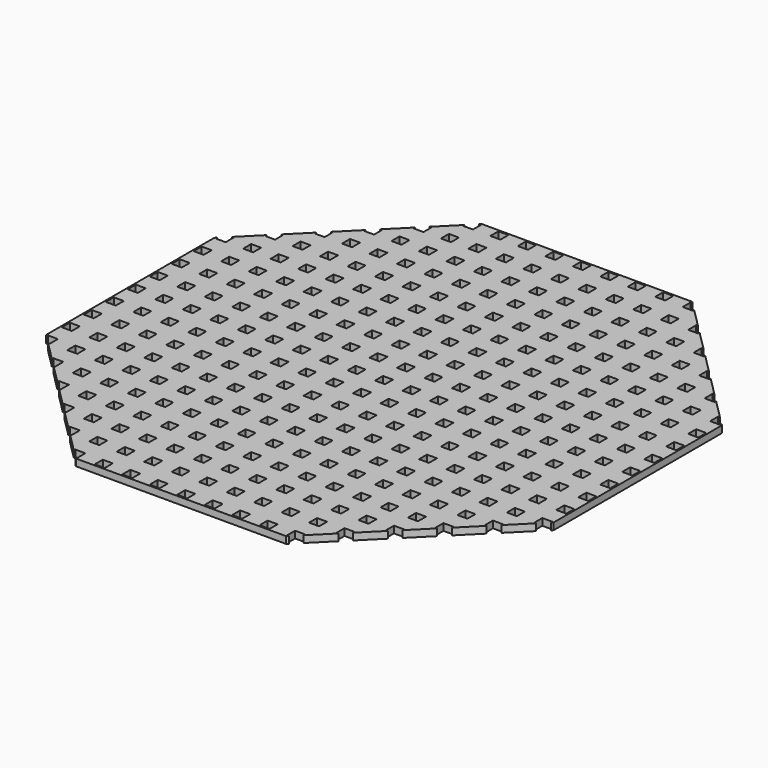
from build123d import *

# Parameters (mm, degrees)
F0_W     = 4.6228
F0_H     = 4.6228
F1_DEPTH = 3.175


with BuildPart() as f1:
    # F0 (on Top) → F1 (new body)
    with BuildSketch(Plane.XY):
        Polygon((-113.677273, 2.210381), (-114.398573, 2.210381), (-114.398573, -46.390415), (-113.677273, -47.111715), (-113.677273, -46.278219), (-109.054473, -46.278219), (-109.054473, -50.901019), (-109.887969, -50.901019), (-100.977273, -59.811715), (-100.977273, -58.978219), (-96.354473, -58.978219), (-96.354473, -63.601019), (-97.187969, -63.601019), (-88.277273, -72.511715), (-88.277273, -71.678219), (-83.654473, -71.678219), (-83.654473, -76.301019), (-84.487969, -76.301019), (-75.577273, -85.211715), (-75.577273, -84.378219), (-70.954473, -84.378219), (-70.954473, -89.001019), (-71.787969, -89.001019), (-62.877273, -97.911715), (-62.877273, -97.078219), (-58.254473, -97.078219), (-58.254473, -101.701019), (-59.087969, -101.701019), (-50.177273, -110.611715), (-50.177273, -109.778219), (-45.554473, -109.778219), (-45.554473, -114.401019), (-46.387969, -114.401019), (-45.666668, -115.12232), (2.934127, -115.12232), (2.934127, -114.401019), (0.622727, -114.401019), (0.622727, -109.778219), (2.934127, -109.778219), (2.934127, -101.701019), (0.622727, -101.701019), (0.622727, -97.078219), (2.934127, -97.078219), (2.934127, -89.001019), (0.622727, -89.001019), (0.622727, -84.378219), (2.934127, -84.378219), (2.934127, -76.301019), (0.622727, -76.301019), (0.622727, -71.678219), (2.934127, -71.678219), (2.934127, -63.601019), (0.622727, -63.601019), (0.622727, -58.978219), (2.934127, -58.978219), (2.934127, -50.901019), (0.622727, -50.901019), (0.622727, -46.278219), (2.934127, -46.278219), (2.934127, -38.201019), (0.622727, -38.201019), (0.622727, -33.578219), (2.934127, -33.578219), (2.934127, -25.501019), (0.622727, -25.501019), (0.622727, -20.878219), (2.934127, -20.878219), (2.934127, -12.801019), (0.622727, -12.801019), (0.622727, -8.178219), (2.934127, -8.178219), (2.934127, -0.101019), (0.622727, -0.101019), (0.622727, 2.210381), (-7.454473, 2.210381), (-7.454473, -0.101019), (-12.077273, -0.101019), (-12.077273, 2.210381), (-20.154473, 2.210381), (-20.154473, -0.101019), (-24.777273, -0.101019), (-24.777273, 2.210381), (-32.854473, 2.210381), (-32.854473, -0.101019), (-37.477273, -0.101019), (-37.477273, 2.210381), (-45.554473, 2.210381), (-45.554473, -0.101019), (-50.177273, -0.101019), (-50.177273, 2.210381), (-58.254473, 2.210381), (-58.254473, -0.101019), (-62.877273, -0.101019), (-62.877273, 2.210381), (-70.954473, 2.210381), (-70.954473, -0.101019), (-75.577273, -0.101019), (-75.577273, 2.210381), (-83.654473, 2.210381), (-83.654473, -0.101019), (-88.277273, -0.101019), (-88.277273, 2.210381), (-96.354473, 2.210381), (-96.354473, -0.101019), (-100.977273, -0.101019), (-100.977273, 2.210381), (-109.054473, 2.210381), (-109.054473, -0.101019), (-113.677273, -0.101019), align=None)
        with Locations((-60.565873, -86.689619)):
            Rectangle(F0_W, F0_H, mode=Mode.SUBTRACT)
        with Locations((-85.965873, -61.289619)):
            Rectangle(F0_W, F0_H, mode=Mode.SUBTRACT)
        with Locations((-73.265873, -73.989619)):
            Rectangle(F0_W, F0_H, mode=Mode.SUBTRACT)
        with Locations((-60.565873, -73.989619)):
            Rectangle(F0_W, F0_H, mode=Mode.SUBTRACT)
        with Locations((-73.265873, -61.289619)):
            Rectangle(F0_W, F0_H, mode=Mode.SUBTRACT)
        with Locations((-60.565873, -61.289619)):
            Rectangle(F0_W, F0_H, mode=Mode.SUBTRACT)
        with Locations((-35.165873, -112.089619)):
            Rectangle(F0_W, F0_H, mode=Mode.SUBTRACT)
        with Locations((-47.865873, -99.389619)):
            Rectangle(F0_W, F0_H, mode=Mode.SUBTRACT)
        with Locations((-47.865873, -86.689619)):
            Rectangle(F0_W, F0_H, mode=Mode.SUBTRACT)
        with Locations((-35.165873, -99.389619)):
            Rectangle(F0_W, F0_H, mode=Mode.SUBTRACT)
        with Locations((-35.165873, -86.689619)):
            Rectangle(F0_W, F0_H, mode=Mode.SUBTRACT)
        with Locations((-22.465873, -112.089619)):
            Rectangle(F0_W, F0_H, mode=Mode.SUBTRACT)
        with Locations((-9.765873, -112.089619)):
            Rectangle(F0_W, F0_H, mode=Mode.SUBTRACT)
        with Locations((-22.465873, -99.389619)):
            Rectangle(F0_W, F0_H, mode=Mode.SUBTRACT)
        with Locations((-22.465873, -86.689619)):
            Rectangle(F0_W, F0_H, mode=Mode.SUBTRACT)
        with Locations((-9.765873, -99.389619)):
            Rectangle(F0_W, F0_H, mode=Mode.SUBTRACT)
        with Locations((-9.765873, -86.689619)):
            Rectangle(F0_W, F0_H, mode=Mode.SUBTRACT)
        with Locations((-47.865873, -73.989619)):
            Rectangle(F0_W, F0_H, mode=Mode.SUBTRACT)
        with Locations((-35.165873, -73.989619)):
            Rectangle(F0_W, F0_H, mode=Mode.SUBTRACT)
        with Locations((-47.865873, -61.289619)):
            Rectangle(F0_W, F0_H, mode=Mode.SUBTRACT)
        with Locations((-35.165873, -61.289619)):
            Rectangle(F0_W, F0_H, mode=Mode.SUBTRACT)
        with Locations((-22.465873, -73.989619)):
            Rectangle(F0_W, F0_H, mode=Mode.SUBTRACT)
        with Locations((-9.765873, -73.989619)):
            Rectangle(F0_W, F0_H, mode=Mode.SUBTRACT)
        with Locations((-22.465873, -61.289619)):
            Rectangle(F0_W, F0_H, mode=Mode.SUBTRACT)
        with Locations((-9.765873, -61.289619)):
            Rectangle(F0_W, F0_H, mode=Mode.SUBTRACT)
        with Locations((-98.665873, -48.589619)):
            Rectangle(F0_W, F0_H, mode=Mode.SUBTRACT)
        with Locations((-85.965873, -48.589619)):
            Rectangle(F0_W, F0_H, mode=Mode.SUBTRACT)
        with Locations((-111.365873, -35.889619)):
            Rectangle(F0_W, F0_H, mode=Mode.SUBTRACT)
        with Locations((-98.665873, -35.889619)):
            Rectangle(F0_W, F0_H, mode=Mode.SUBTRACT)
        with Locations((-85.965873, -35.889619)):
            Rectangle(F0_W, F0_H, mode=Mode.SUBTRACT)
        with Locations((-73.265873, -48.589619)):
            Rectangle(F0_W, F0_H, mode=Mode.SUBTRACT)
        with Locations((-60.565873, -48.589619)):
            Rectangle(F0_W, F0_H, mode=Mode.SUBTRACT)
        with Locations((-73.265873, -35.889619)):
            Rectangle(F0_W, F0_H, mode=Mode.SUBTRACT)
        with Locations((-60.565873, -35.889619)):
            Rectangle(F0_W, F0_H, mode=Mode.SUBTRACT)
        with Locations((-111.365873, -23.189619)):
            Rectangle(F0_W, F0_H, mode=Mode.SUBTRACT)
        with Locations((-98.665873, -23.189619)):
            Rectangle(F0_W, F0_H, mode=Mode.SUBTRACT)
        with Locations((-85.965873, -23.189619)):
            Rectangle(F0_W, F0_H, mode=Mode.SUBTRACT)
        with Locations((-111.365873, -10.489619)):
            Rectangle(F0_W, F0_H, mode=Mode.SUBTRACT)
        with Locations((-98.665873, -10.489619)):
            Rectangle(F0_W, F0_H, mode=Mode.SUBTRACT)
        with Locations((-85.965873, -10.489619)):
            Rectangle(F0_W, F0_H, mode=Mode.SUBTRACT)
        with Locations((-73.265873, -23.189619)):
            Rectangle(F0_W, F0_H, mode=Mode.SUBTRACT)
        with Locations((-60.565873, -23.189619)):
            Rectangle(F0_W, F0_H, mode=Mode.SUBTRACT)
        with Locations((-73.265873, -10.489619)):
            Rectangle(F0_W, F0_H, mode=Mode.SUBTRACT)
        with Locations((-60.565873, -10.489619)):
            Rectangle(F0_W, F0_H, mode=Mode.SUBTRACT)
        with Locations((-47.865873, -48.589619)):
            Rectangle(F0_W, F0_H, mode=Mode.SUBTRACT)
        with Locations((-35.165873, -48.589619)):
            Rectangle(F0_W, F0_H, mode=Mode.SUBTRACT)
        with Locations((-47.865873, -35.889619)):
            Rectangle(F0_W, F0_H, mode=Mode.SUBTRACT)
        with Locations((-35.165873, -35.889619)):
            Rectangle(F0_W, F0_H, mode=Mode.SUBTRACT)
        with Locations((-22.465873, -48.589619)):
            Rectangle(F0_W, F0_H, mode=Mode.SUBTRACT)
        with Locations((-9.765873, -48.589619)):
            Rectangle(F0_W, F0_H, mode=Mode.SUBTRACT)
        with Locations((-22.465873, -35.889619)):
            Rectangle(F0_W, F0_H, mode=Mode.SUBTRACT)
        with Locations((-9.765873, -35.889619)):
            Rectangle(F0_W, F0_H, mode=Mode.SUBTRACT)
        with Locations((-47.865873, -23.189619)):
            Rectangle(F0_W, F0_H, mode=Mode.SUBTRACT)
        with Locations((-35.165873, -23.189619)):
            Rectangle(F0_W, F0_H, mode=Mode.SUBTRACT)
        with Locations((-47.865873, -10.489619)):
            Rectangle(F0_W, F0_H, mode=Mode.SUBTRACT)
        with Locations((-35.165873, -10.489619)):
            Rectangle(F0_W, F0_H, mode=Mode.SUBTRACT)
        with Locations((-22.465873, -23.189619)):
            Rectangle(F0_W, F0_H, mode=Mode.SUBTRACT)
        with Locations((-9.765873, -23.189619)):
            Rectangle(F0_W, F0_H, mode=Mode.SUBTRACT)
        with Locations((-22.465873, -10.489619)):
            Rectangle(F0_W, F0_H, mode=Mode.SUBTRACT)
        with Locations((-9.765873, -10.489619)):
            Rectangle(F0_W, F0_H, mode=Mode.SUBTRACT)
        Polygon((-113.677273, 51.532478), (-114.398573, 50.811177), (-114.398573, 2.210381), (-113.677273, 2.210381), (-113.677273, 4.521781), (-109.054473, 4.521781), (-109.054473, 2.210381), (-100.977273, 2.210381), (-100.977273, 4.521781), (-96.354473, 4.521781), (-96.354473, 2.210381), (-88.277273, 2.210381), (-88.277273, 4.521781), (-83.654473, 4.521781), (-83.654473, 2.210381), (-75.577273, 2.210381), (-75.577273, 4.521781), (-70.954473, 4.521781), (-70.954473, 2.210381), (-62.877273, 2.210381), (-62.877273, 4.521781), (-58.254473, 4.521781), (-58.254473, 2.210381), (-50.177273, 2.210381), (-50.177273, 4.521781), (-45.554473, 4.521781), (-45.554473, 2.210381), (-37.477273, 2.210381), (-37.477273, 4.521781), (-32.854473, 4.521781), (-32.854473, 2.210381), (-24.777273, 2.210381), (-24.777273, 4.521781), (-20.154473, 4.521781), (-20.154473, 2.210381), (-12.077273, 2.210381), (-12.077273, 4.521781), (-7.454473, 4.521781), (-7.454473, 2.210381), (0.622727, 2.210381), (0.622727, 4.521781), (2.934127, 4.521781), (2.934127, 12.598981), (0.622727, 12.598981), (0.622727, 17.221781), (2.934127, 17.221781), (2.934127, 25.298981), (0.622727, 25.298981), (0.622727, 29.921781), (2.934127, 29.921781), (2.934127, 37.998981), (0.622727, 37.998981), (0.622727, 42.621781), (2.934127, 42.621781), (2.934127, 50.698981), (0.622727, 50.698981), (0.622727, 55.321781), (2.934127, 55.321781), (2.934127, 63.398981), (0.622727, 63.398981), (0.622727, 68.021781), (2.934127, 68.021781), (2.934127, 76.098981), (0.622727, 76.098981), (0.622727, 80.721781), (2.934127, 80.721781), (2.934127, 88.798981), (0.622727, 88.798981), (0.622727, 93.421781), (2.934127, 93.421781), (2.934127, 101.498981), (0.622727, 101.498981), (0.622727, 106.121781), (2.934127, 106.121781), (2.934127, 114.198981), (0.622727, 114.198981), (0.622727, 118.821781), (2.934127, 118.821781), (2.934127, 119.543082), (-45.666668, 119.543082), (-46.387969, 118.821781), (-45.554473, 118.821781), (-45.554473, 114.198981), (-50.177273, 114.198981), (-50.177273, 115.032478), (-59.087969, 106.121781), (-58.254473, 106.121781), (-58.254473, 101.498981), (-62.877273, 101.498981), (-62.877273, 102.332478), (-71.787969, 93.421781), (-70.954473, 93.421781), (-70.954473, 88.798981), (-75.577273, 88.798981), (-75.577273, 89.632478), (-84.487969, 80.721781), (-83.654473, 80.721781), (-83.654473, 76.098981), (-88.277273, 76.098981), (-88.277273, 76.932478), (-97.187969, 68.021781), (-96.354473, 68.021781), (-96.354473, 63.398981), (-100.977273, 63.398981), (-100.977273, 64.232478), (-109.887969, 55.321781), (-109.054473, 55.321781), (-109.054473, 50.698981), (-113.677273, 50.698981), align=None)
        with Locations((-111.365873, 14.910381)):
            Rectangle(F0_W, F0_H, mode=Mode.SUBTRACT)
        with Locations((-98.665873, 14.910381)):
            Rectangle(F0_W, F0_H, mode=Mode.SUBTRACT)
        with Locations((-85.965873, 14.910381)):
            Rectangle(F0_W, F0_H, mode=Mode.SUBTRACT)
        with Locations((-111.365873, 27.610381)):
            Rectangle(F0_W, F0_H, mode=Mode.SUBTRACT)
        with Locations((-98.665873, 27.610381)):
            Rectangle(F0_W, F0_H, mode=Mode.SUBTRACT)
        with Locations((-85.965873, 27.610381)):
            Rectangle(F0_W, F0_H, mode=Mode.SUBTRACT)
        with Locations((-73.265873, 14.910381)):
            Rectangle(F0_W, F0_H, mode=Mode.SUBTRACT)
        with Locations((-60.565873, 14.910381)):
            Rectangle(F0_W, F0_H, mode=Mode.SUBTRACT)
        with Locations((-73.265873, 27.610381)):
            Rectangle(F0_W, F0_H, mode=Mode.SUBTRACT)
        with Locations((-60.565873, 27.610381)):
            Rectangle(F0_W, F0_H, mode=Mode.SUBTRACT)
        with Locations((-111.365873, 40.310381)):
            Rectangle(F0_W, F0_H, mode=Mode.SUBTRACT)
        with Locations((-98.665873, 40.310381)):
            Rectangle(F0_W, F0_H, mode=Mode.SUBTRACT)
        with Locations((-85.965873, 40.310381)):
            Rectangle(F0_W, F0_H, mode=Mode.SUBTRACT)
        with Locations((-98.665873, 53.010381)):
            Rectangle(F0_W, F0_H, mode=Mode.SUBTRACT)
        with Locations((-85.965873, 53.010381)):
            Rectangle(F0_W, F0_H, mode=Mode.SUBTRACT)
        with Locations((-73.265873, 40.310381)):
            Rectangle(F0_W, F0_H, mode=Mode.SUBTRACT)
        with Locations((-60.565873, 40.310381)):
            Rectangle(F0_W, F0_H, mode=Mode.SUBTRACT)
        with Locations((-73.265873, 53.010381)):
            Rectangle(F0_W, F0_H, mode=Mode.SUBTRACT)
        with Locations((-60.565873, 53.010381)):
            Rectangle(F0_W, F0_H, mode=Mode.SUBTRACT)
        with Locations((-47.865873, 14.910381)):
            Rectangle(F0_W, F0_H, mode=Mode.SUBTRACT)
        with Locations((-35.165873, 14.910381)):
            Rectangle(F0_W, F0_H, mode=Mode.SUBTRACT)
        with Locations((-47.865873, 27.610381)):
            Rectangle(F0_W, F0_H, mode=Mode.SUBTRACT)
        with Locations((-35.165873, 27.610381)):
            Rectangle(F0_W, F0_H, mode=Mode.SUBTRACT)
        with Locations((-22.465873, 14.910381)):
            Rectangle(F0_W, F0_H, mode=Mode.SUBTRACT)
        with Locations((-9.765873, 14.910381)):
            Rectangle(F0_W, F0_H, mode=Mode.SUBTRACT)
        with Locations((-22.465873, 27.610381)):
            Rectangle(F0_W, F0_H, mode=Mode.SUBTRACT)
        with Locations((-9.765873, 27.610381)):
            Rectangle(F0_W, F0_H, mode=Mode.SUBTRACT)
        with Locations((-47.865873, 40.310381)):
            Rectangle(F0_W, F0_H, mode=Mode.SUBTRACT)
        with Locations((-35.165873, 40.310381)):
            Rectangle(F0_W, F0_H, mode=Mode.SUBTRACT)
        with Locations((-47.865873, 53.010381)):
            Rectangle(F0_W, F0_H, mode=Mode.SUBTRACT)
        with Locations((-35.165873, 53.010381)):
            Rectangle(F0_W, F0_H, mode=Mode.SUBTRACT)
        with Locations((-22.465873, 40.310381)):
            Rectangle(F0_W, F0_H, mode=Mode.SUBTRACT)
        with Locations((-9.765873, 40.310381)):
            Rectangle(F0_W, F0_H, mode=Mode.SUBTRACT)
        with Locations((-22.465873, 53.010381)):
            Rectangle(F0_W, F0_H, mode=Mode.SUBTRACT)
        with Locations((-9.765873, 53.010381)):
            Rectangle(F0_W, F0_H, mode=Mode.SUBTRACT)
        with Locations((-85.965873, 65.710381)):
            Rectangle(F0_W, F0_H, mode=Mode.SUBTRACT)
        with Locations((-73.265873, 65.710381)):
            Rectangle(F0_W, F0_H, mode=Mode.SUBTRACT)
        with Locations((-60.565873, 65.710381)):
            Rectangle(F0_W, F0_H, mode=Mode.SUBTRACT)
        with Locations((-73.265873, 78.410381)):
            Rectangle(F0_W, F0_H, mode=Mode.SUBTRACT)
        with Locations((-60.565873, 78.410381)):
            Rectangle(F0_W, F0_H, mode=Mode.SUBTRACT)
        with Locations((-60.565873, 91.110381)):
            Rectangle(F0_W, F0_H, mode=Mode.SUBTRACT)
        with Locations((-47.865873, 65.710381)):
            Rectangle(F0_W, F0_H, mode=Mode.SUBTRACT)
        with Locations((-35.165873, 65.710381)):
            Rectangle(F0_W, F0_H, mode=Mode.SUBTRACT)
        with Locations((-47.865873, 78.410381)):
            Rectangle(F0_W, F0_H, mode=Mode.SUBTRACT)
        with Locations((-35.165873, 78.410381)):
            Rectangle(F0_W, F0_H, mode=Mode.SUBTRACT)
        with Locations((-22.465873, 65.710381)):
            Rectangle(F0_W, F0_H, mode=Mode.SUBTRACT)
        with Locations((-9.765873, 65.710381)):
            Rectangle(F0_W, F0_H, mode=Mode.SUBTRACT)
        with Locations((-22.465873, 78.410381)):
            Rectangle(F0_W, F0_H, mode=Mode.SUBTRACT)
        with Locations((-9.765873, 78.410381)):
            Rectangle(F0_W, F0_H, mode=Mode.SUBTRACT)
        with Locations((-47.865873, 91.110381)):
            Rectangle(F0_W, F0_H, mode=Mode.SUBTRACT)
        with Locations((-47.865873, 103.810381)):
            Rectangle(F0_W, F0_H, mode=Mode.SUBTRACT)
        with Locations((-35.165873, 91.110381)):
            Rectangle(F0_W, F0_H, mode=Mode.SUBTRACT)
        with Locations((-35.165873, 103.810381)):
            Rectangle(F0_W, F0_H, mode=Mode.SUBTRACT)
        with Locations((-35.165873, 116.510381)):
            Rectangle(F0_W, F0_H, mode=Mode.SUBTRACT)
        with Locations((-22.465873, 91.110381)):
            Rectangle(F0_W, F0_H, mode=Mode.SUBTRACT)
        with Locations((-22.465873, 103.810381)):
            Rectangle(F0_W, F0_H, mode=Mode.SUBTRACT)
        with Locations((-9.765873, 91.110381)):
            Rectangle(F0_W, F0_H, mode=Mode.SUBTRACT)
        with Locations((-9.765873, 103.810381)):
            Rectangle(F0_W, F0_H, mode=Mode.SUBTRACT)
        with Locations((-22.465873, 116.510381)):
            Rectangle(F0_W, F0_H, mode=Mode.SUBTRACT)
        with Locations((-9.765873, 116.510381)):
            Rectangle(F0_W, F0_H, mode=Mode.SUBTRACT)
        Polygon((51.534923, 119.543082), (2.934127, 119.543082), (2.934127, 118.821781), (5.245527, 118.821781), (5.245527, 114.198981), (2.934127, 114.198981), (2.934127, 106.121781), (5.245527, 106.121781), (5.245527, 101.498981), (2.934127, 101.498981), (2.934127, 93.421781), (5.245527, 93.421781), (5.245527, 88.798981), (2.934127, 88.798981), (2.934127, 80.721781), (5.245527, 80.721781), (5.245527, 76.098981), (2.934127, 76.098981), (2.934127, 68.021781), (5.245527, 68.021781), (5.245527, 63.398981), (2.934127, 63.398981), (2.934127, 55.321781), (5.245527, 55.321781), (5.245527, 50.698981), (2.934127, 50.698981), (2.934127, 42.621781), (5.245527, 42.621781), (5.245527, 37.998981), (2.934127, 37.998981), (2.934127, 29.921781), (5.245527, 29.921781), (5.245527, 25.298981), (2.934127, 25.298981), (2.934127, 17.221781), (5.245527, 17.221781), (5.245527, 12.598981), (2.934127, 12.598981), (2.934127, 4.521781), (5.245527, 4.521781), (5.245527, 2.210381), (13.322727, 2.210381), (13.322727, 4.521781), (17.945527, 4.521781), (17.945527, 2.210381), (26.022727, 2.210381), (26.022727, 4.521781), (30.645527, 4.521781), (30.645527, 2.210381), (38.722727, 2.210381), (38.722727, 4.521781), (43.345527, 4.521781), (43.345527, 2.210381), (51.422727, 2.210381), (51.422727, 4.521781), (56.045527, 4.521781), (56.045527, 2.210381), (64.122727, 2.210381), (64.122727, 4.521781), (68.745527, 4.521781), (68.745527, 2.210381), (76.822727, 2.210381), (76.822727, 4.521781), (81.445527, 4.521781), (81.445527, 2.210381), (89.522727, 2.210381), (89.522727, 4.521781), (94.145527, 4.521781), (94.145527, 2.210381), (102.222727, 2.210381), (102.222727, 4.521781), (106.845527, 4.521781), (106.845527, 2.210381), (114.922727, 2.210381), (114.922727, 4.521781), (119.545527, 4.521781), (119.545527, 2.210381), (120.266828, 2.210381), (120.266828, 50.811177), (119.545527, 51.532478), (119.545527, 50.698981), (114.922727, 50.698981), (114.922727, 55.321781), (115.756224, 55.321781), (106.845527, 64.232478), (106.845527, 63.398981), (102.222727, 63.398981), (102.222727, 68.021781), (103.056224, 68.021781), (94.145527, 76.932478), (94.145527, 76.098981), (89.522727, 76.098981), (89.522727, 80.721781), (90.356224, 80.721781), (81.445527, 89.632478), (81.445527, 88.798981), (76.822727, 88.798981), (76.822727, 93.421781), (77.656224, 93.421781), (68.745527, 102.332478), (68.745527, 101.498981), (64.122727, 101.498981), (64.122727, 106.121781), (64.956224, 106.121781), (56.045527, 115.032478), (56.045527, 114.198981), (51.422727, 114.198981), (51.422727, 118.821781), (52.256224, 118.821781), align=None)
        with Locations((15.634127, 14.910381)):
            Rectangle(F0_W, F0_H, mode=Mode.SUBTRACT)
        with Locations((28.334127, 14.910381)):
            Rectangle(F0_W, F0_H, mode=Mode.SUBTRACT)
        with Locations((15.634127, 27.610381)):
            Rectangle(F0_W, F0_H, mode=Mode.SUBTRACT)
        with Locations((28.334127, 27.610381)):
            Rectangle(F0_W, F0_H, mode=Mode.SUBTRACT)
        with Locations((41.034127, 14.910381)):
            Rectangle(F0_W, F0_H, mode=Mode.SUBTRACT)
        with Locations((53.734127, 14.910381)):
            Rectangle(F0_W, F0_H, mode=Mode.SUBTRACT)
        with Locations((41.034127, 27.610381)):
            Rectangle(F0_W, F0_H, mode=Mode.SUBTRACT)
        with Locations((53.734127, 27.610381)):
            Rectangle(F0_W, F0_H, mode=Mode.SUBTRACT)
        with Locations((15.634127, 40.310381)):
            Rectangle(F0_W, F0_H, mode=Mode.SUBTRACT)
        with Locations((28.334127, 40.310381)):
            Rectangle(F0_W, F0_H, mode=Mode.SUBTRACT)
        with Locations((15.634127, 53.010381)):
            Rectangle(F0_W, F0_H, mode=Mode.SUBTRACT)
        with Locations((28.334127, 53.010381)):
            Rectangle(F0_W, F0_H, mode=Mode.SUBTRACT)
        with Locations((41.034127, 40.310381)):
            Rectangle(F0_W, F0_H, mode=Mode.SUBTRACT)
        with Locations((53.734127, 40.310381)):
            Rectangle(F0_W, F0_H, mode=Mode.SUBTRACT)
        with Locations((41.034127, 53.010381)):
            Rectangle(F0_W, F0_H, mode=Mode.SUBTRACT)
        with Locations((53.734127, 53.010381)):
            Rectangle(F0_W, F0_H, mode=Mode.SUBTRACT)
        with Locations((66.434127, 14.910381)):
            Rectangle(F0_W, F0_H, mode=Mode.SUBTRACT)
        with Locations((79.134127, 14.910381)):
            Rectangle(F0_W, F0_H, mode=Mode.SUBTRACT)
        with Locations((66.434127, 27.610381)):
            Rectangle(F0_W, F0_H, mode=Mode.SUBTRACT)
        with Locations((79.134127, 27.610381)):
            Rectangle(F0_W, F0_H, mode=Mode.SUBTRACT)
        with Locations((91.834127, 14.910381)):
            Rectangle(F0_W, F0_H, mode=Mode.SUBTRACT)
        with Locations((104.534127, 14.910381)):
            Rectangle(F0_W, F0_H, mode=Mode.SUBTRACT)
        with Locations((117.234127, 14.910381)):
            Rectangle(F0_W, F0_H, mode=Mode.SUBTRACT)
        with Locations((91.834127, 27.610381)):
            Rectangle(F0_W, F0_H, mode=Mode.SUBTRACT)
        with Locations((104.534127, 27.610381)):
            Rectangle(F0_W, F0_H, mode=Mode.SUBTRACT)
        with Locations((117.234127, 27.610381)):
            Rectangle(F0_W, F0_H, mode=Mode.SUBTRACT)
        with Locations((66.434127, 40.310381)):
            Rectangle(F0_W, F0_H, mode=Mode.SUBTRACT)
        with Locations((79.134127, 40.310381)):
            Rectangle(F0_W, F0_H, mode=Mode.SUBTRACT)
        with Locations((66.434127, 53.010381)):
            Rectangle(F0_W, F0_H, mode=Mode.SUBTRACT)
        with Locations((79.134127, 53.010381)):
            Rectangle(F0_W, F0_H, mode=Mode.SUBTRACT)
        with Locations((91.834127, 40.310381)):
            Rectangle(F0_W, F0_H, mode=Mode.SUBTRACT)
        with Locations((104.534127, 40.310381)):
            Rectangle(F0_W, F0_H, mode=Mode.SUBTRACT)
        with Locations((117.234127, 40.310381)):
            Rectangle(F0_W, F0_H, mode=Mode.SUBTRACT)
        with Locations((91.834127, 53.010381)):
            Rectangle(F0_W, F0_H, mode=Mode.SUBTRACT)
        with Locations((104.534127, 53.010381)):
            Rectangle(F0_W, F0_H, mode=Mode.SUBTRACT)
        with Locations((15.634127, 65.710381)):
            Rectangle(F0_W, F0_H, mode=Mode.SUBTRACT)
        with Locations((28.334127, 65.710381)):
            Rectangle(F0_W, F0_H, mode=Mode.SUBTRACT)
        with Locations((15.634127, 78.410381)):
            Rectangle(F0_W, F0_H, mode=Mode.SUBTRACT)
        with Locations((28.334127, 78.410381)):
            Rectangle(F0_W, F0_H, mode=Mode.SUBTRACT)
        with Locations((41.034127, 65.710381)):
            Rectangle(F0_W, F0_H, mode=Mode.SUBTRACT)
        with Locations((53.734127, 65.710381)):
            Rectangle(F0_W, F0_H, mode=Mode.SUBTRACT)
        with Locations((41.034127, 78.410381)):
            Rectangle(F0_W, F0_H, mode=Mode.SUBTRACT)
        with Locations((53.734127, 78.410381)):
            Rectangle(F0_W, F0_H, mode=Mode.SUBTRACT)
        with Locations((15.634127, 91.110381)):
            Rectangle(F0_W, F0_H, mode=Mode.SUBTRACT)
        with Locations((15.634127, 103.810381)):
            Rectangle(F0_W, F0_H, mode=Mode.SUBTRACT)
        with Locations((28.334127, 91.110381)):
            Rectangle(F0_W, F0_H, mode=Mode.SUBTRACT)
        with Locations((28.334127, 103.810381)):
            Rectangle(F0_W, F0_H, mode=Mode.SUBTRACT)
        with Locations((15.634127, 116.510381)):
            Rectangle(F0_W, F0_H, mode=Mode.SUBTRACT)
        with Locations((28.334127, 116.510381)):
            Rectangle(F0_W, F0_H, mode=Mode.SUBTRACT)
        with Locations((41.034127, 91.110381)):
            Rectangle(F0_W, F0_H, mode=Mode.SUBTRACT)
        with Locations((41.034127, 103.810381)):
            Rectangle(F0_W, F0_H, mode=Mode.SUBTRACT)
        with Locations((53.734127, 91.110381)):
            Rectangle(F0_W, F0_H, mode=Mode.SUBTRACT)
        with Locations((53.734127, 103.810381)):
            Rectangle(F0_W, F0_H, mode=Mode.SUBTRACT)
        with Locations((41.034127, 116.510381)):
            Rectangle(F0_W, F0_H, mode=Mode.SUBTRACT)
        with Locations((66.434127, 65.710381)):
            Rectangle(F0_W, F0_H, mode=Mode.SUBTRACT)
        with Locations((79.134127, 65.710381)):
            Rectangle(F0_W, F0_H, mode=Mode.SUBTRACT)
        with Locations((66.434127, 78.410381)):
            Rectangle(F0_W, F0_H, mode=Mode.SUBTRACT)
        with Locations((79.134127, 78.410381)):
            Rectangle(F0_W, F0_H, mode=Mode.SUBTRACT)
        with Locations((91.834127, 65.710381)):
            Rectangle(F0_W, F0_H, mode=Mode.SUBTRACT)
        with Locations((66.434127, 91.110381)):
            Rectangle(F0_W, F0_H, mode=Mode.SUBTRACT)
        Polygon((2.934127, -114.401019), (2.934127, -115.12232), (51.534923, -115.12232), (52.256224, -114.401019), (51.422727, -114.401019), (51.422727, -109.778219), (56.045527, -109.778219), (56.045527, -110.611715), (64.956224, -101.701019), (64.122727, -101.701019), (64.122727, -97.078219), (68.745527, -97.078219), (68.745527, -97.911715), (77.656224, -89.001019), (76.822727, -89.001019), (76.822727, -84.378219), (81.445527, -84.378219), (81.445527, -85.211715), (90.356224, -76.301019), (89.522727, -76.301019), (89.522727, -71.678219), (94.145527, -71.678219), (94.145527, -72.511715), (103.056224, -63.601019), (102.222727, -63.601019), (102.222727, -58.978219), (106.845527, -58.978219), (106.845527, -59.811715), (115.756224, -50.901019), (114.922727, -50.901019), (114.922727, -46.278219), (119.545527, -46.278219), (119.545527, -47.111715), (120.266828, -46.390415), (120.266828, 2.210381), (119.545527, 2.210381), (119.545527, -0.101019), (114.922727, -0.101019), (114.922727, 2.210381), (106.845527, 2.210381), (106.845527, -0.101019), (102.222727, -0.101019), (102.222727, 2.210381), (94.145527, 2.210381), (94.145527, -0.101019), (89.522727, -0.101019), (89.522727, 2.210381), (81.445527, 2.210381), (81.445527, -0.101019), (76.822727, -0.101019), (76.822727, 2.210381), (68.745527, 2.210381), (68.745527, -0.101019), (64.122727, -0.101019), (64.122727, 2.210381), (56.045527, 2.210381), (56.045527, -0.101019), (51.422727, -0.101019), (51.422727, 2.210381), (43.345527, 2.210381), (43.345527, -0.101019), (38.722727, -0.101019), (38.722727, 2.210381), (30.645527, 2.210381), (30.645527, -0.101019), (26.022727, -0.101019), (26.022727, 2.210381), (17.945527, 2.210381), (17.945527, -0.101019), (13.322727, -0.101019), (13.322727, 2.210381), (5.245527, 2.210381), (5.245527, -0.101019), (2.934127, -0.101019), (2.934127, -8.178219), (5.245527, -8.178219), (5.245527, -12.801019), (2.934127, -12.801019), (2.934127, -20.878219), (5.245527, -20.878219), (5.245527, -25.501019), (2.934127, -25.501019), (2.934127, -33.578219), (5.245527, -33.578219), (5.245527, -38.201019), (2.934127, -38.201019), (2.934127, -46.278219), (5.245527, -46.278219), (5.245527, -50.901019), (2.934127, -50.901019), (2.934127, -58.978219), (5.245527, -58.978219), (5.245527, -63.601019), (2.934127, -63.601019), (2.934127, -71.678219), (5.245527, -71.678219), (5.245527, -76.301019), (2.934127, -76.301019), (2.934127, -84.378219), (5.245527, -84.378219), (5.245527, -89.001019), (2.934127, -89.001019), (2.934127, -97.078219), (5.245527, -97.078219), (5.245527, -101.701019), (2.934127, -101.701019), (2.934127, -109.778219), (5.245527, -109.778219), (5.245527, -114.401019), align=None)
        with Locations((15.634127, -112.089619)):
            Rectangle(F0_W, F0_H, mode=Mode.SUBTRACT)
        with Locations((28.334127, -112.089619)):
            Rectangle(F0_W, F0_H, mode=Mode.SUBTRACT)
        with Locations((15.634127, -99.389619)):
            Rectangle(F0_W, F0_H, mode=Mode.SUBTRACT)
        with Locations((15.634127, -86.689619)):
            Rectangle(F0_W, F0_H, mode=Mode.SUBTRACT)
        with Locations((28.334127, -99.389619)):
            Rectangle(F0_W, F0_H, mode=Mode.SUBTRACT)
        Polygon((30.645527, -84.378219), (30.645527, -89.001019), (28.203011, -89.001019), (26.022727, -89.001019), (26.022727, -84.378219), align=None, mode=Mode.SUBTRACT)
        with Locations((41.034127, -112.089619)):
            Rectangle(F0_W, F0_H, mode=Mode.SUBTRACT)
        Polygon((43.345527, -97.078219), (43.345527, -101.701019), (38.722727, -101.701019), (38.722727, -97.078219), (41.034127, -97.078219), align=None, mode=Mode.SUBTRACT)
        Polygon((43.345527, -89.001019), (41.034127, -89.001019), (38.722727, -89.001019), (38.722727, -84.378219), (43.345527, -84.378219), align=None, mode=Mode.SUBTRACT)
        with Locations((53.734127, -99.389619)):
            Rectangle(F0_W, F0_H, mode=Mode.SUBTRACT)
        with Locations((53.734127, -86.689619)):
            Rectangle(F0_W, F0_H, mode=Mode.SUBTRACT)
        with Locations((15.634127, -73.989619)):
            Rectangle(F0_W, F0_H, mode=Mode.SUBTRACT)
        with Locations((28.334127, -73.989619)):
            Rectangle(F0_W, F0_H, mode=Mode.SUBTRACT)
        with Locations((15.634127, -61.289619)):
            Rectangle(F0_W, F0_H, mode=Mode.SUBTRACT)
        with Locations((28.334127, -61.289619)):
            Rectangle(F0_W, F0_H, mode=Mode.SUBTRACT)
        with Locations((41.034127, -73.989619)):
            Rectangle(F0_W, F0_H, mode=Mode.SUBTRACT)
        with Locations((53.734127, -73.989619)):
            Rectangle(F0_W, F0_H, mode=Mode.SUBTRACT)
        with Locations((41.034127, -61.289619)):
            Rectangle(F0_W, F0_H, mode=Mode.SUBTRACT)
        with Locations((53.734127, -61.289619)):
            Rectangle(F0_W, F0_H, mode=Mode.SUBTRACT)
        with Locations((66.434127, -86.689619)):
            Rectangle(F0_W, F0_H, mode=Mode.SUBTRACT)
        with Locations((66.434127, -73.989619)):
            Rectangle(F0_W, F0_H, mode=Mode.SUBTRACT)
        with Locations((79.134127, -73.989619)):
            Rectangle(F0_W, F0_H, mode=Mode.SUBTRACT)
        with Locations((66.434127, -61.289619)):
            Rectangle(F0_W, F0_H, mode=Mode.SUBTRACT)
        with Locations((79.134127, -61.289619)):
            Rectangle(F0_W, F0_H, mode=Mode.SUBTRACT)
        with Locations((91.834127, -61.289619)):
            Rectangle(F0_W, F0_H, mode=Mode.SUBTRACT)
        with Locations((15.634127, -48.589619)):
            Rectangle(F0_W, F0_H, mode=Mode.SUBTRACT)
        with Locations((28.334127, -48.589619)):
            Rectangle(F0_W, F0_H, mode=Mode.SUBTRACT)
        with Locations((15.634127, -35.889619)):
            Rectangle(F0_W, F0_H, mode=Mode.SUBTRACT)
        with Locations((28.334127, -35.889619)):
            Rectangle(F0_W, F0_H, mode=Mode.SUBTRACT)
        with Locations((41.034127, -48.589619)):
            Rectangle(F0_W, F0_H, mode=Mode.SUBTRACT)
        with Locations((53.734127, -48.589619)):
            Rectangle(F0_W, F0_H, mode=Mode.SUBTRACT)
        with Locations((41.034127, -35.889619)):
            Rectangle(F0_W, F0_H, mode=Mode.SUBTRACT)
        with Locations((53.734127, -35.889619)):
            Rectangle(F0_W, F0_H, mode=Mode.SUBTRACT)
        with Locations((15.634127, -23.189619)):
            Rectangle(F0_W, F0_H, mode=Mode.SUBTRACT)
        with Locations((28.334127, -23.189619)):
            Rectangle(F0_W, F0_H, mode=Mode.SUBTRACT)
        with Locations((15.634127, -10.489619)):
            Rectangle(F0_W, F0_H, mode=Mode.SUBTRACT)
        with Locations((28.334127, -10.489619)):
            Rectangle(F0_W, F0_H, mode=Mode.SUBTRACT)
        with Locations((41.034127, -23.189619)):
            Rectangle(F0_W, F0_H, mode=Mode.SUBTRACT)
        with Locations((53.734127, -23.189619)):
            Rectangle(F0_W, F0_H, mode=Mode.SUBTRACT)
        with Locations((41.034127, -10.489619)):
            Rectangle(F0_W, F0_H, mode=Mode.SUBTRACT)
        with Locations((53.734127, -10.489619)):
            Rectangle(F0_W, F0_H, mode=Mode.SUBTRACT)
        with Locations((66.434127, -48.589619)):
            Rectangle(F0_W, F0_H, mode=Mode.SUBTRACT)
        with Locations((79.134127, -48.589619)):
            Rectangle(F0_W, F0_H, mode=Mode.SUBTRACT)
        with Locations((66.434127, -35.889619)):
            Rectangle(F0_W, F0_H, mode=Mode.SUBTRACT)
        with Locations((79.134127, -35.889619)):
            Rectangle(F0_W, F0_H, mode=Mode.SUBTRACT)
        with Locations((91.834127, -48.589619)):
            Rectangle(F0_W, F0_H, mode=Mode.SUBTRACT)
        with Locations((104.534127, -48.589619)):
            Rectangle(F0_W, F0_H, mode=Mode.SUBTRACT)
        with Locations((91.834127, -35.889619)):
            Rectangle(F0_W, F0_H, mode=Mode.SUBTRACT)
        with Locations((104.534127, -35.889619)):
            Rectangle(F0_W, F0_H, mode=Mode.SUBTRACT)
        with Locations((117.234127, -35.889619)):
            Rectangle(F0_W, F0_H, mode=Mode.SUBTRACT)
        with Locations((66.434127, -23.189619)):
            Rectangle(F0_W, F0_H, mode=Mode.SUBTRACT)
        with Locations((79.134127, -23.189619)):
            Rectangle(F0_W, F0_H, mode=Mode.SUBTRACT)
        with Locations((66.434127, -10.489619)):
            Rectangle(F0_W, F0_H, mode=Mode.SUBTRACT)
        with Locations((79.134127, -10.489619)):
            Rectangle(F0_W, F0_H, mode=Mode.SUBTRACT)
        with Locations((91.834127, -23.189619)):
            Rectangle(F0_W, F0_H, mode=Mode.SUBTRACT)
        with Locations((104.534127, -23.189619)):
            Rectangle(F0_W, F0_H, mode=Mode.SUBTRACT)
        with Locations((117.234127, -23.189619)):
            Rectangle(F0_W, F0_H, mode=Mode.SUBTRACT)
        with Locations((91.834127, -10.489619)):
            Rectangle(F0_W, F0_H, mode=Mode.SUBTRACT)
        with Locations((104.534127, -10.489619)):
            Rectangle(F0_W, F0_H, mode=Mode.SUBTRACT)
        with Locations((117.234127, -10.489619)):
            Rectangle(F0_W, F0_H, mode=Mode.SUBTRACT)
    extrude(amount=F1_DEPTH)


solid = f1.part
